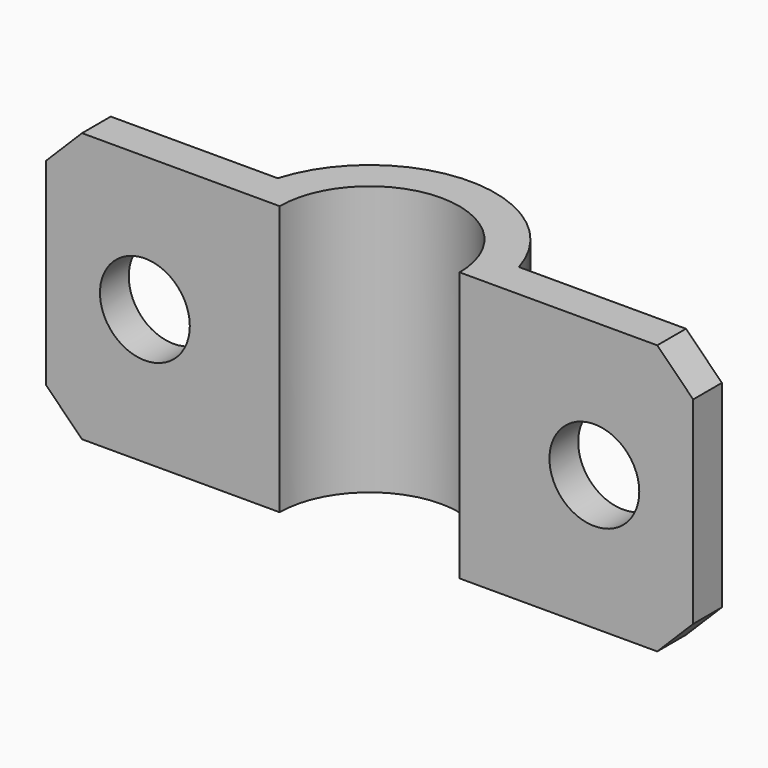
from build123d import *

# Parameters (mm, degrees)
F1_DEPTH = 15
F2_R     = 2.5
F3_DEPTH = 7.001
F4_SIZE  = 2


with BuildPart() as f1:
    # F0 (on Top) → F1 (new body)
    with BuildSketch(Plane.XY):
        with BuildLine():
            Line((-47.371286, 2), (-47.371286, 0))
            Line((-47.371286, 0), (-34.371286, 0))
            ThreePointArc((-34.371286, 0), (-29.382447, 4.999988), (-24.371336, 0.022323))
            Line((-24.371336, 0.022323), (-11.371336, 0.022323))
            Line((-11.371336, 0.022323), (-11.371336, 2.022323))
            Line((-11.371336, 2.022323), (-22.669778, 2.022323))
            ThreePointArc((-22.669778, 2.022323), (-29.382938, 6.99999), (-36.07949, 2))
            Line((-36.07949, 2), (-47.371286, 2))
        make_face()
    extrude(amount=F1_DEPTH)

    # F2 (on Front) → F3 (cut, through all)
    with BuildSketch(Plane.XZ):
        with Locations((-41.871286, 7.5)):
            Circle(F2_R)
        with Locations((-16.871336, 7.5)):
            Circle(F2_R)
    extrude(amount=-F3_DEPTH, mode=Mode.SUBTRACT)

    # F4
    f4_edges = [f1.edges().sort_by_distance(p)[0] for p in [
        (-11.371336, 1.022323, 15),
        (-47.371286, 1, 15),
        (-11.371336, 1.022323, 0),
        (-47.371286, 1, 0),
    ]]
    chamfer(f4_edges, length=F4_SIZE)


solid = f1.part
